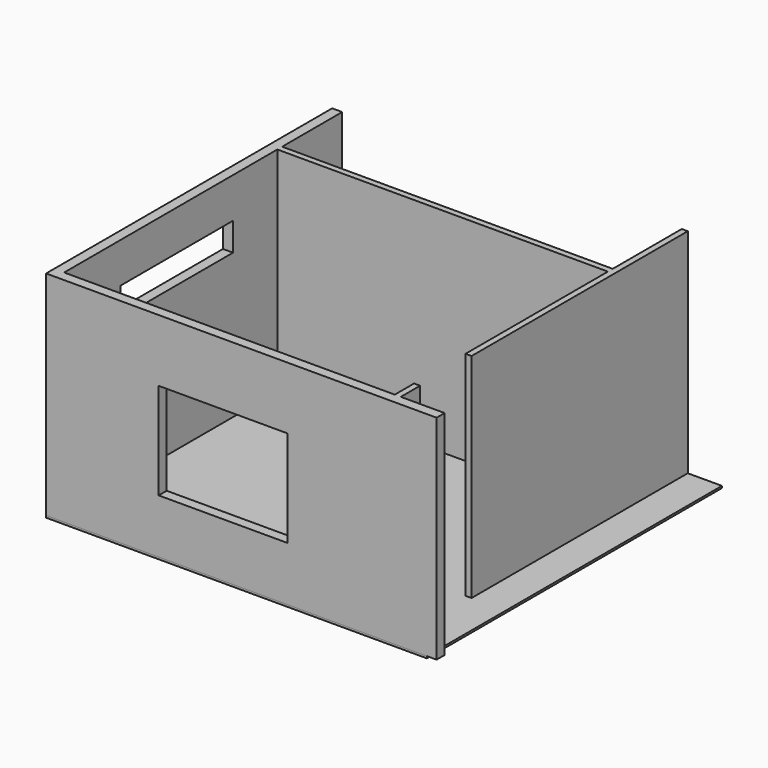
from build123d import *

# Parameters (mm, degrees)
F1_DEPTH = 2650
F2_W     = 4736.848122
F2_H     = 4586.738045
F3_DEPTH = 25
F4_W     = 1600
F4_H     = 1200
F5_DEPTH = 125
F6_W     = 1750
F6_H     = 350
F7_DEPTH = 125


with BuildPart() as f1:
    # F0 (on Top) → F1 (new body)
    with BuildSketch(Plane.XY):
        Polygon((2056, -1357), (2056, -1657), (-2056, -1657), (-2056, 1657), (2056, 1657), (2056, -557), (2131, -557), (2131, 2804.738045), (2056, 2804.738045), (2056, 1732), (-2056, 1732), (-2056, 2665.965796), (-2181, 2665.965796), (-2181, -1657), (-2181, -1782), (2676.175833, -1782), (2676.175833, -1657), (2131, -1657), (2131, -1357), align=None)
    extrude(amount=F1_DEPTH)

    # F2 (on face) → F3 (join)
    with BuildSketch(Plane(origin=(0, 0, 0), x_dir=(1, 0, 0), z_dir=(0, 0, -1))):
        with Locations((187.424061, -511.369023)):
            Rectangle(F2_W, F2_H)
    extrude(amount=F3_DEPTH)

    # F4 (on face) → F5 (cut, through all)
    with BuildSketch(Plane.XZ.offset(1782)):
        with Locations((19, 1275)):
            Rectangle(F4_W, F4_H)
    extrude(amount=-F5_DEPTH, mode=Mode.SUBTRACT)

    # F6 (on face) → F7 (cut, through all)
    with BuildSketch(Plane(origin=(-2181, 0, 0), x_dir=(0, -1, 0), z_dir=(-1, 0, 0))):
        with Locations((-93, 1975)):
            Rectangle(F6_W, F6_H)
    extrude(amount=-F7_DEPTH, mode=Mode.SUBTRACT)


solid = f1.part
